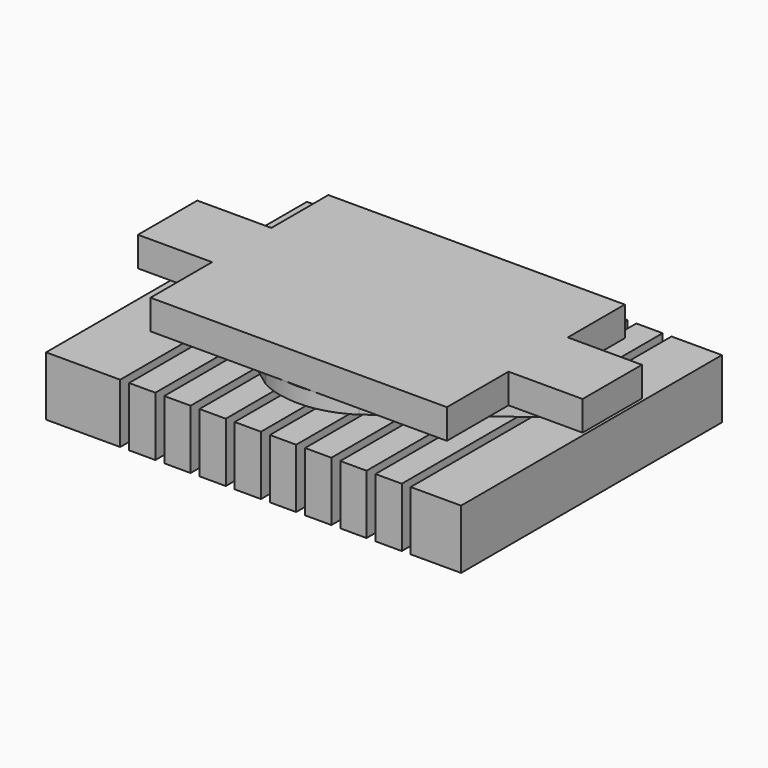
from build123d import *

# Parameters (mm, degrees)
SKETCH_W             = 28
SKETCH_H             = 22
PAD002_DEPTH         = 5
POCKET001_DEPTH      = 0.8
SKETCH002_W          = 0.6
SKETCH002_H          = 23
POCKET_DEPTH         = 4
LINEARPATTERN_COUNT  = 9
LINEARPATTERN_PITCH  = 2.375
POCKET002_DEPTH      = 3.5
SKETCH006_W          = 28
SKETCH006_H          = 22
POCKET005_DEPTH      = 1
POCKET005_DEPTH_BACK = 1
PAD_DEPTH            = 2


with BuildPart() as part:
    # Sketch → Pad002 (new body)
    with BuildSketch(Plane.XY):
        with Locations((15, 12)):
            Rectangle(SKETCH_W, SKETCH_H)
    extrude(amount=PAD002_DEPTH)

    # Sketch001 → Pocket001 (cut)
    with BuildSketch(Plane.XY):
        with BuildLine():
            ThreePointArc((17.967868, 19.714572), (14.962963, 20.499886), (11.967982, 19.677535))
            Line((11.967982, 19.677535), (4.036475, 13.531422))
            ThreePointArc((4.036475, 13.531422), (3.750333, 12.536475), (4, 11.531754))
            Line((4, 11.531754), (12.33, 4.876817))
            ThreePointArc((12.33, 4.876817), (15.374304, 4.261687), (18.318313, 5.25112))
            Line((18.318313, 5.25112), (26, 11.531754))
            ThreePointArc((26, 11.531754), (26.249667, 12.536475), (25.963525, 13.531422))
            Line((25.963525, 13.531422), (17.967868, 19.714572))
        make_face()
    extrude(amount=POCKET001_DEPTH, mode=Mode.SUBTRACT)

    # Sketch002 → Pocket (cut)
    with BuildSketch(Plane.XY):
        with Locations((6.3, 11.5)):
            Rectangle(SKETCH002_W, SKETCH002_H)
    pocket = extrude(amount=POCKET_DEPTH, mode=Mode.SUBTRACT)

    # LinearPattern: Pocket ×9
    with Locations(*[(i * LINEARPATTERN_PITCH, 0, 0) for i in range(1, LINEARPATTERN_COUNT)]):
        add(pocket, mode=Mode.SUBTRACT)

    # Sketch003 → Pocket002 (cut)
    with BuildSketch(Plane(origin=(0.5, 0, 4), x_dir=(0.707107, 0, -0.707107), z_dir=(0.707107, 0, 0.707107))):
        with BuildLine():
            ThreePointArc((17.966363, 19.215428), (14.961232, 19.999875), (11.966488, 19.17666))
            Line((11.966488, 19.17666), (4.036475, 13.531422))
            ThreePointArc((4.036475, 13.531422), (3.750333, 12.536475), (4, 11.531754))
            Line((4, 11.531754), (12.33, 5.376817))
            ThreePointArc((12.33, 5.376817), (15.374304, 4.761687), (18.318313, 5.75112))
            Line((18.318313, 5.75112), (26, 11.531754))
            ThreePointArc((26, 11.531754), (26.249667, 12.536475), (25.963525, 13.531422))
            Line((25.963525, 13.531422), (17.966363, 19.215428))
        make_face()
    extrude(amount=POCKET002_DEPTH, mode=Mode.SUBTRACT)

    # Sketch006 → Pocket005 (cut, two sides)
    with BuildSketch(Plane.XY.offset(5)) as pocket005_sk:
        with Locations((15, 12)):
            Rectangle(SKETCH006_W, SKETCH006_H)
        with BuildLine():
            ThreePointArc((17.966363, 19.215428), (14.961232, 19.999875), (11.966488, 19.17666))
            Line((11.966488, 19.17666), (4.036475, 13.531422))
            ThreePointArc((4.036475, 13.531422), (3.750333, 12.536475), (4, 11.531754))
            Line((4, 11.531754), (12.33, 5.376817))
            ThreePointArc((12.33, 5.376817), (15.374304, 4.761687), (18.318313, 5.75112))
            Line((18.318313, 5.75112), (26, 11.531754))
            ThreePointArc((26, 11.531754), (26.249667, 12.536475), (25.963525, 13.531422))
            Line((25.963525, 13.531422), (17.966363, 19.215428))
        make_face(mode=Mode.SUBTRACT)
    extrude(amount=-POCKET005_DEPTH, mode=Mode.SUBTRACT)
    extrude(pocket005_sk.sketch, amount=POCKET005_DEPTH_BACK, mode=Mode.SUBTRACT)

    # Sketch004 → Pad (join)
    with BuildSketch(Plane.XY.offset(5)):
        Polygon((5, 19.805), (25, 19.805), (25, 15), (30, 15), (30, 10), (25, 10), (25, 4.805), (5, 4.805), (5, 10), (0, 10), (0, 15), (5, 15), align=None)
    extrude(amount=PAD_DEPTH)


solid = part.part
